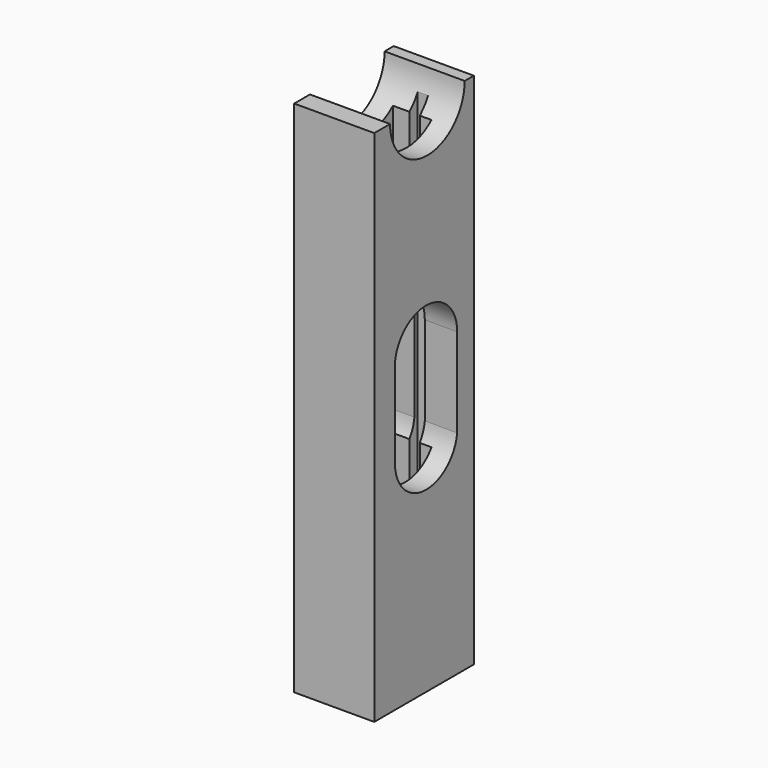
from build123d import *

# Parameters (mm, degrees)
F1_DEPTH = 50
F3_DEPTH = 25
F4_R     = 4.5
F5_DEPTH = 25


with BuildPart() as f1:
    # F0 (on Top) → F1 (new body)
    with BuildSketch(Plane.XY):
        Polygon((1.597207, 5.6), (-2.124833, 5.6), (-4.124833, 5.6), (-4.124833, -6.4), (-2.124833, -6.4), (1.597207, -6.4), (3.597207, -6.4), (3.597207, 5.6), align=None)
        Polygon((-0.528539, 3), (-0.528539, 4), (0.471461, 4), (0.471461, 3), (1.597207, 3), (1.597207, -3.9), (0.471461, -3.9), (0.471461, -4.4), (-0.528539, -4.4), (-0.528539, -3.9), (-2.124833, -3.9), (-2.124833, 3), align=None, mode=Mode.SUBTRACT)
    extrude(amount=F1_DEPTH)

    # F2 (on face) → F3 (cut)
    with BuildSketch(Plane.YZ.offset(3.597207)):
        with BuildLine():
            Line((-3.9, 29.523588), (-3.9, 20.935996))
            ThreePointArc((-3.9, 20.935996), (-0.366142, 17.178962), (3.6, 20.476412))
            Line((3.6, 20.476412), (3.6, 29.064004))
            ThreePointArc((3.6, 29.064004), (0.066142, 32.821038), (-3.9, 29.523588))
        make_face()
    extrude(amount=-F3_DEPTH, mode=Mode.SUBTRACT)

    # F4 (on face) → F5 (cut)
    with BuildSketch(Plane(origin=(-4.124833, 0, 0), x_dir=(0, -1, 0), z_dir=(-1, 0, 0))):
        with Locations((0, 50)):
            Circle(F4_R)
    extrude(amount=-F5_DEPTH, mode=Mode.SUBTRACT)


solid = f1.part
